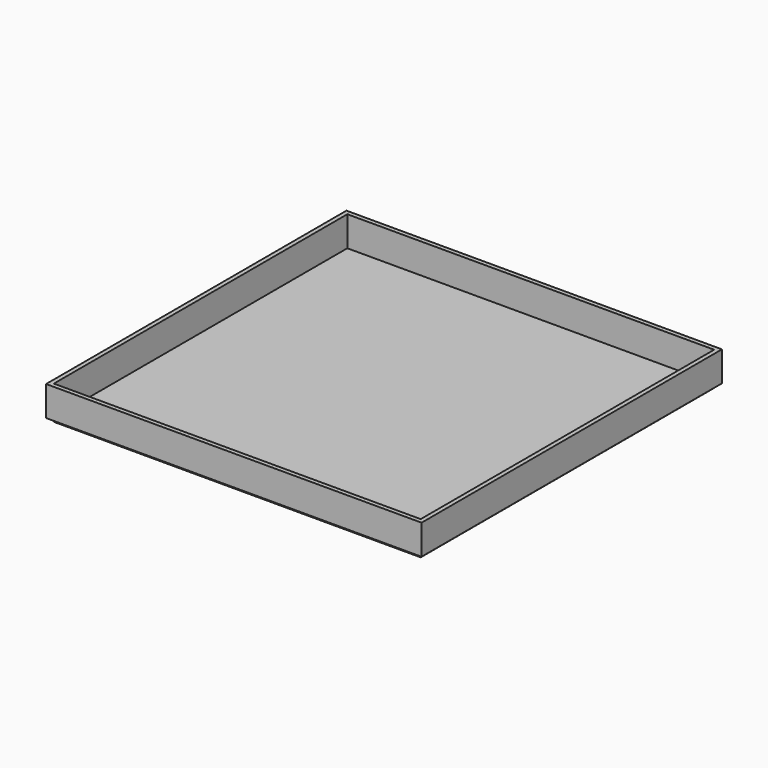
from build123d import *

# Parameters (mm, degrees)
F0_W     = 233.1974
F0_H     = 233.1974
F1_DEPTH = 2.3622
F3_DEPTH = 19.05


with BuildPart() as f1:
    # F0 (on Top) → F1 (new body)
    with BuildSketch(Plane.XY):
        with Locations((-62.308144, -13.983691)):
            Rectangle(F0_W, F0_H)
    extrude(amount=F1_DEPTH)


with BuildPart() as f3:
    # F2 (on face) → F3 (new body)
    with BuildSketch(Plane.XY.offset(2.3622)):
        Polygon((-153.363779, 105.358209), (-181.647631, 105.358209), (-181.647631, -12.04132), (-178.906844, -12.04132), (-178.906844, 102.615009), (-153.363779, 102.615009), align=None)
        Polygon((-178.906844, -12.04132), (-181.647631, -12.04132), (-181.647631, -133.325591), (-62.306937, -133.325591), (-62.306937, -130.582391), (-178.906844, -130.582391), align=None)
        Polygon((57.033756, 105.358209), (-153.363779, 105.358209), (-153.363779, 102.615009), (54.290556, 102.615009), (54.290556, -13.983691), (57.033756, -13.983691), align=None)
        Polygon((57.033756, -133.325591), (57.033756, -13.983691), (54.290556, -13.983691), (54.290556, -130.582391), (-62.306937, -130.582391), (-62.306937, -133.325591), align=None)
    extrude(amount=F3_DEPTH)


solid = Compound([f1.part, f3.part])
